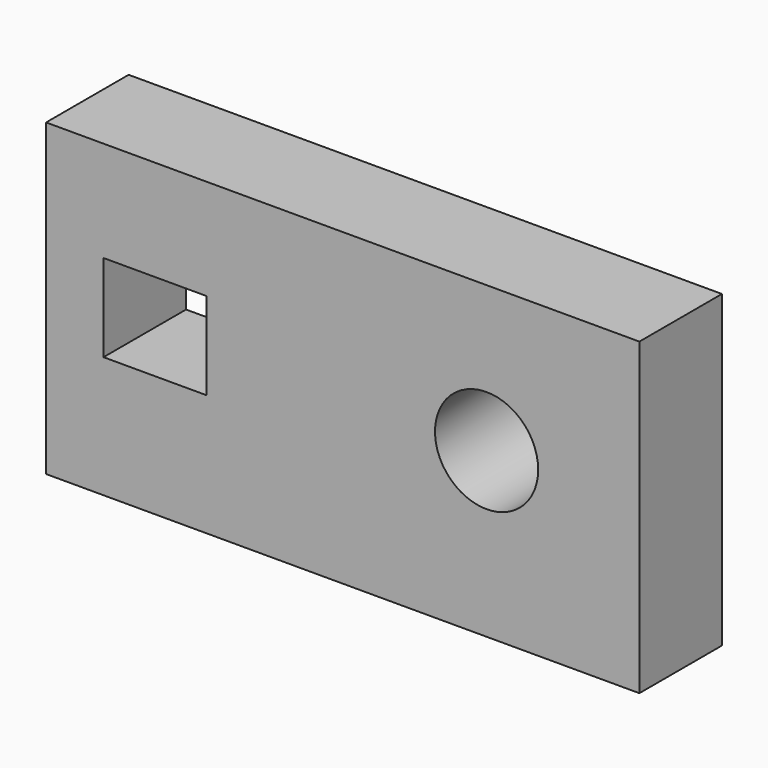
from build123d import *

# Parameters (mm, degrees)
F0_W     = 146.05
F0_H     = 76.2
F1_DEPTH = 25.4
F2_R     = 12.7
F2_W     = 25.4
F2_H     = 21.495175
F3_DEPTH = 1105.408


with BuildPart() as f1:
    # F0 (on Front) → F1 (new body)
    with BuildSketch(Plane.XZ):
        with Locations((24.522518, 40.773365)):
            Rectangle(F0_W, F0_H)
    extrude(amount=F1_DEPTH)

    # F2 (on face) → F3 (cut)
    with BuildSketch(Plane.XZ.offset(25.4)):
        with Locations((59.937678, 43.017171)):
            Circle(F2_R)
        with Locations((-21.663093, 43.346831)):
            Rectangle(F2_W, F2_H)
    extrude(amount=-F3_DEPTH, mode=Mode.SUBTRACT)


solid = f1.part
